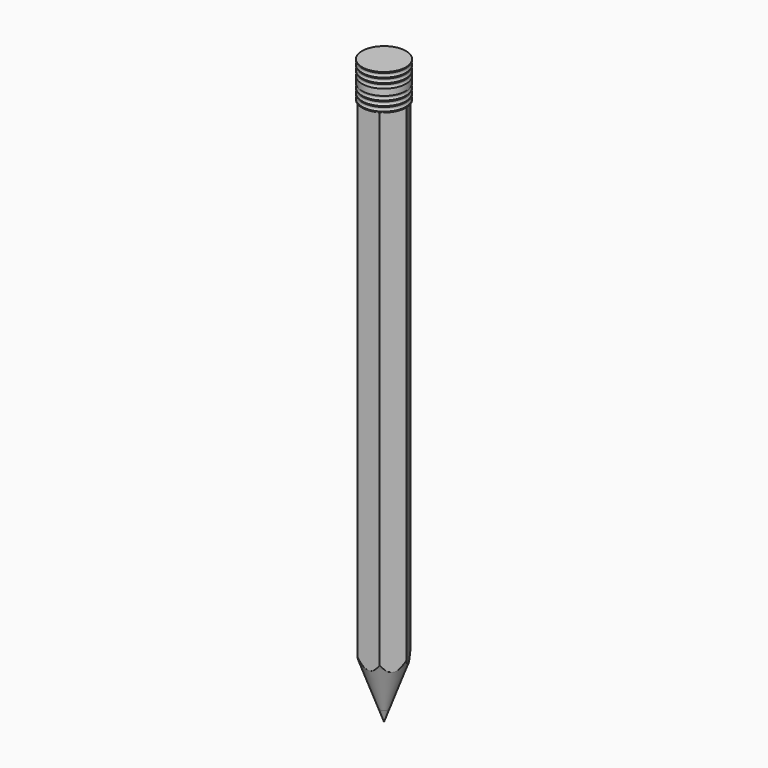
from build123d import *

# Parameters (mm, degrees)
F1_DEPTH = 76.2
F2_R     = 0.635
F3_DEPTH = 76.201
F6_R     = 0.635
F7_DEPTH = 129.54


with BuildPart() as f1:
    # F0 (on Top) → F1 (new body)
    with BuildSketch(Plane.XY):
        Polygon((-1.5875, 2.749630657), (-3.175, 0), (-1.5875, -2.749630657), (1.5875, -2.749630657), (3.175, 0), (1.5875, 2.749630657), align=None)
    extrude(amount=F1_DEPTH)

    # F2 (on Top) → F3 (cut, through all)
    with BuildSketch(Plane.XY):
        Circle(F2_R)
    extrude(amount=F3_DEPTH, mode=Mode.SUBTRACT)

    # F4 (on Right) → F5 (revolve, cut)
    with BuildSketch(Plane.YZ):
        Polygon((-0.635, 0), (-5.2574219752, 12.7), (-5.2574219752, 0), align=None)
    revolve(axis=Axis((0, 0, 6.35), (0, 0, 1)), mode=Mode.SUBTRACT)


with BuildPart() as f7:
    # F6 (on face) → F7 (new body)
    with BuildSketch(Plane.XY.offset(76.2)):
        Circle(F6_R)
    extrude(amount=-F7_DEPTH)

    # F8 (on Right) → F9 (revolve, cut)
    with BuildSketch(Plane.YZ):
        Polygon((0, -1.7446481614), (-0.635, 0), (-0.635, -53.34), (0, -53.34), align=None)
    revolve(axis=Axis((0, 0, -26.67), (0, 0, -1)), mode=Mode.SUBTRACT)


with BuildPart() as f11:
    # F10 (on Front) → F11 (revolve)
    with BuildSketch(Plane.XZ):
        with BuildLine():
            Line((0, 81.28), (0, 76.2))
            Line((0, 76.2), (3.1242, 76.2))
            Line((3.1242, 76.2), (3.1242, 76.327))
            ThreePointArc((3.1242, 76.327), (2.9972, 76.6109806331), (3.1242, 76.8949612663))
            Line((3.1242, 76.8949612663), (3.1242, 77.0219612663))
            ThreePointArc((3.1242, 77.0219612663), (2.9972, 77.3059418994), (3.1242, 77.5899225326))
            Line((3.1242, 77.5899225326), (3.1242, 77.7169225326))
            ThreePointArc((3.1242, 77.7169225326), (2.9972, 78.0009031657), (3.1242, 78.2848837989))
            Line((3.1242, 78.2848837989), (3.1242, 79.1951162011))
            ThreePointArc((3.1242, 79.1951162011), (2.9972, 79.4790968343), (3.1242, 79.7630774674))
            Line((3.1242, 79.7630774674), (3.1242, 79.8900774674))
            ThreePointArc((3.1242, 79.8900774674), (2.9972, 80.1740581006), (3.1242, 80.4580387337))
            Line((3.1242, 80.4580387337), (3.1242, 80.5850387337))
            ThreePointArc((3.1242, 80.5850387337), (2.9972, 80.8690193669), (3.1242, 81.153))
            Line((3.1242, 81.153), (3.1242, 81.28))
            Line((3.1242, 81.28), (0, 81.28))
        make_face()
    revolve(axis=Axis((0, 0, 105.6698518753), (0, 0, 1)))


solid = Compound([f1.part, f7.part, f11.part])
